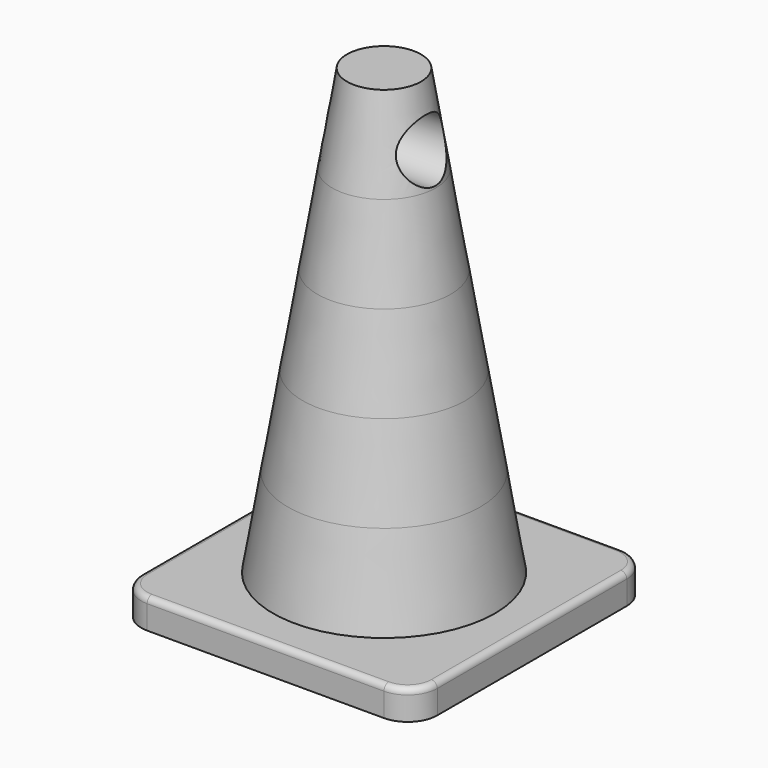
from build123d import *

# Parameters (mm, degrees)
F1_DEPTH   = 10
F2_R       = 37.5
F4_R       = 32.5
F5_FACE_R  = 32.5
F7_R       = 27.5
F8_FACE_R  = 27.5
F10_R      = 22.5
F11_FACE_R = 22.5
F13_R      = 17.5
F14_FACE_R = 17.5
F16_R      = 12.5
F18_R      = 2
F20_R      = 10
F21_DEPTH  = 30


with BuildPart() as f1:
    # F0 (on Top) → F1 (new body)
    with BuildSketch(Plane.XY):
        with BuildLine():
            Line((40, 50), (-40, 50))
            ThreePointArc((-40, 50), (-47.0710678119, 47.0710678119), (-50, 40))
            Line((-50, 40), (-50, -40))
            ThreePointArc((-50, -40), (-47.0710678119, -47.0710678119), (-40, -50))
            Line((-40, -50), (40, -50))
            ThreePointArc((40, -50), (47.0710678119, -47.0710678119), (50, -40))
            Line((50, -40), (50, 40))
            ThreePointArc((50, 40), (47.0710678119, 47.0710678119), (40, 50))
        make_face()
    extrude(amount=F1_DEPTH)

    # F18
    f18_edges = [f1.edges().sort_by_distance(p)[0] for p in [
        (0, -50, 10),
        (-47.071068, -47.071068, 10),
        (-50, 0, 10),
        (47.071068, -47.071068, 10),
        (50, 0, 10),
        (47.071068, 47.071068, 10),
        (0, 50, 10),
        (-47.071068, 47.071068, 10),
    ]]
    fillet(f18_edges, radius=F18_R)


with BuildPart() as f5:
    # F2 (on face) → F5 section 0
    with BuildSketch(Plane.XY.offset(10)):
        Circle(F2_R)
    # F4 (on offset) → F5 section 1
    with BuildSketch(Plane.XY.offset(40)):
        Circle(F4_R)
    loft()


with BuildPart() as f8:
    # F5_face (on face) → F8 section 0
    with BuildSketch(Plane.XY.offset(40)):
        Circle(F5_FACE_R)
    # F7 (on offset) → F8 section 1
    with BuildSketch(Plane.XY.offset(70)):
        Circle(F7_R)
    loft()


with BuildPart() as f11:
    # F8_face (on face) → F11 section 0
    with BuildSketch(Plane.XY.offset(70)):
        Circle(F8_FACE_R)
    # F10 (on offset) → F11 section 1
    with BuildSketch(Plane.XY.offset(100)):
        Circle(F10_R)
    loft()


with BuildPart() as f14:
    # F11_face (on face) → F14 section 0
    with BuildSketch(Plane.XY.offset(100)):
        Circle(F11_FACE_R)
    # F13 (on offset) → F14 section 1
    with BuildSketch(Plane.XY.offset(130)):
        Circle(F13_R)
    loft()


with BuildPart() as f17:
    # F14_face (on face) → F17 section 0
    with BuildSketch(Plane.XY.offset(130)):
        Circle(F14_FACE_R)
    # F16 (on offset) → F17 section 1
    with BuildSketch(Plane.XY.offset(160)):
        Circle(F16_R)
    loft()

    # F20 (on Right) → F21 (cut, symmetric)
    with BuildSketch(Plane.YZ):
        with Locations((0, 140.616587709)):
            Circle(F20_R)
    extrude(amount=F21_DEPTH, both=True, mode=Mode.SUBTRACT)


solid = Compound([f1.part, f5.part, f8.part, f11.part, f14.part, f17.part])
